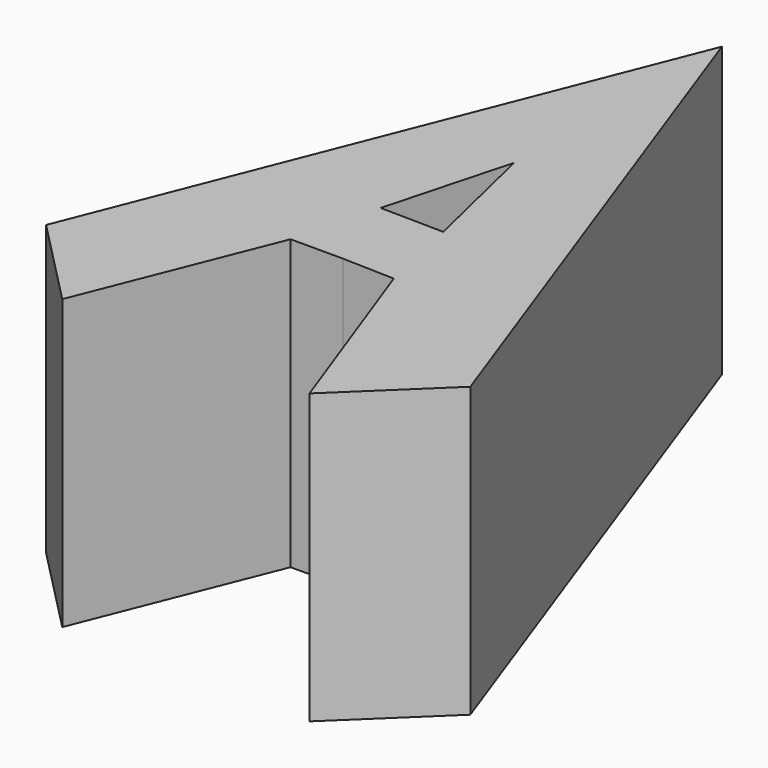
from build123d import *

# Parameters (mm, degrees)
F1_DEPTH = 19


with BuildPart() as f1:
    # F0 (on Top) → F1 (new body)
    with BuildSketch(Plane.XY):
        Polygon((14.719573, 37.1932), (0, 0), (5.806454, -5.92742), (10.801938, 6.606665), (14.241688, 6.606665), (14.328835, 12.184409), (12.240493, 12.217037), (14.457514, 20.420382), align=None)
        Polygon((28.270029, -0.441692), (14.719573, 37.1932), (14.457514, 20.420382), (16.417177, 12.151781), (14.328835, 12.184409), (14.241688, 6.606665), (17.679759, 6.499205), (22.281234, -6.184822), align=None)
    extrude(amount=F1_DEPTH)


solid = f1.part
